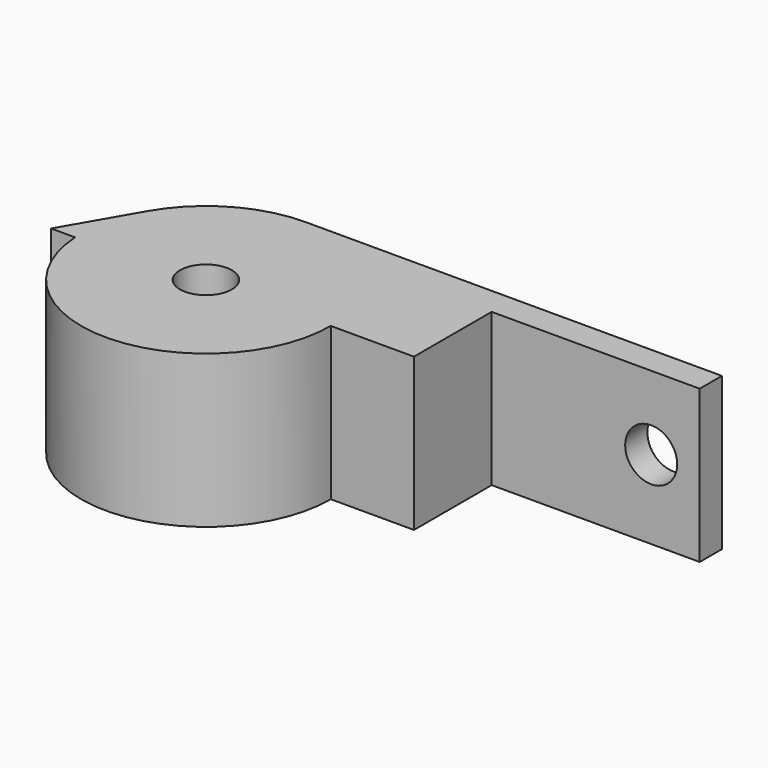
from build123d import *

# Parameters (mm, degrees)
F1_DEPTH = 13.97
F3_D     = 4.7625
F4_W     = 19.05
F4_H     = 13.97
F5_DEPTH = 8.89
F7_D     = 4.7625


with BuildPart() as f1:
    # F0 (on Top) → F1 (new body)
    with BuildSketch(Plane.XY):
        with BuildLine():
            ThreePointArc((-30.457825, -6.426635), (-18.69401, -17.139455), (-7.62, -5.715))
            ThreePointArc((-7.62, -5.715), (-10.967769, 2.367231), (-19.05, 5.715))
            ThreePointArc((-19.05, 5.715), (-24.765, 4.18367), (-28.94867, 0))
            ThreePointArc((-28.94867, 0), (-30.177313, -3.101994), (-30.457825, -6.426635))
        make_face()
        with BuildLine():
            Line((-7.62, -5.715), (19.05, -5.715))
            Line((19.05, -5.715), (19.05, 5.715))
            Line((19.05, 5.715), (-19.05, 5.715))
            ThreePointArc((-19.05, 5.715), (-10.967769, 2.367231), (-7.62, -5.715))
        make_face()
        with BuildLine():
            Line((-32.65909, -6.426635), (-30.457825, -6.426635))
            ThreePointArc((-30.457825, -6.426635), (-30.177313, -3.101994), (-28.94867, 0))
            Line((-28.94867, 0), (-32.65909, -6.426635))
        make_face()
    extrude(amount=F1_DEPTH)

    # F3 (through all)
    with Locations(Plane.XY.offset(13.97)):
        with Locations((-19.05, -5.715)):
            Hole(F3_D / 2)

    # F4 (on face) → F5 (cut)
    with BuildSketch(Plane.XZ.offset(5.715)):
        with Locations((9.525, 6.985)):
            Rectangle(F4_W, F4_H)
    extrude(amount=-F5_DEPTH, mode=Mode.SUBTRACT)

    # F7 (through all)
    with Locations(Plane.XZ.offset(-3.175)):
        with Locations((14.605, 7.200924)):
            Hole(F7_D / 2)


solid = f1.part
